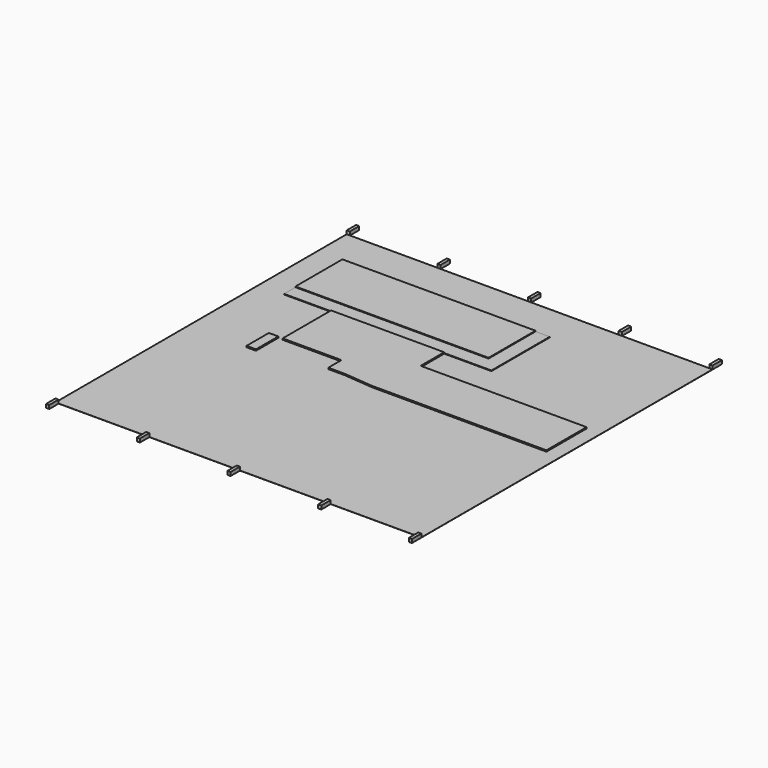
from build123d import *

# Parameters (mm, degrees)
F1_DEPTH = 10
F0_W     = 66
F0_H     = 195
F2_DEPTH = 10
F3_DEPTH = 10
F0_W_2   = 22
F0_H_2   = 82
F4_DEPTH = 25
F5_DEPTH = 25
F6_DEPTH = 5
F7_DEPTH = 1


with BuildPart() as f1:
    # F0 (on Top) → F1 (new body)
    with BuildSketch(Plane.XY):
        Polygon((-1260, -976), (-1260, -770), (-2051, -770), (-2051, -1193), (-1640, -1193), (-1640, -1308), (-1525, -1308), (-1320, -1326.508403), (-100, -1326.508403), (-100, -976), align=None)
    extrude(amount=F1_DEPTH)


with BuildPart() as f2:
    # F0 (on Top) → F2 (new body)
    with BuildSketch(Plane.XY):
        with Locations((-2117, -1287.5)):
            Rectangle(F0_W, F0_H)
    extrude(amount=F2_DEPTH)


with BuildPart() as f3:
    # F0 (on Top) → F3 (new body)
    with BuildSketch(Plane.XY):
        Polygon((-1030, -670), (-1030, -260), (-2380, -260), (-2380, -670), (-2150, -670), align=None)
    extrude(amount=F3_DEPTH)


with BuildPart() as f4:
    # F0 (on Top) → F4 (new body)
    with BuildSketch(Plane.XY):
        with Locations((-2547, 41)):
            Rectangle(F0_W_2, F0_H_2)
        with Locations((-1913, 41)):
            Rectangle(F0_W_2, F0_H_2)
        with Locations((-1279, 41)):
            Rectangle(F0_W_2, F0_H_2)
        with Locations((-645, 41)):
            Rectangle(F0_W_2, F0_H_2)
        with Locations((-11, 41)):
            Rectangle(F0_W_2, F0_H_2)
    extrude(amount=F4_DEPTH)


with BuildPart() as f5:
    # F0 (on Top) → F5 (new body)
    with BuildSketch(Plane.XY):
        with Locations((-2547, -2586)):
            Rectangle(F0_W_2, F0_H_2)
        with Locations((-1913, -2586)):
            Rectangle(F0_W_2, F0_H_2)
        with Locations((-1279, -2586)):
            Rectangle(F0_W_2, F0_H_2)
        with Locations((-645, -2586)):
            Rectangle(F0_W_2, F0_H_2)
        with Locations((-11, -2586)):
            Rectangle(F0_W_2, F0_H_2)
    extrude(amount=F5_DEPTH)


with BuildPart() as f6:
    # F0 (on Top) → F6 (new body)
    with BuildSketch(Plane.XY):
        Polygon((-930, -260), (-1030, -260), (-1030, -670), (-2150, -670), (-2380, -670), (-2380, -770), (-2051, -770), (-1260, -770), (-930, -770), align=None)
    extrude(amount=F6_DEPTH)


with BuildPart() as f7:
    # F0 (on Top) → F7 (new body)
    with BuildSketch(Plane.XY):
        Polygon((0, -976), (0, 0), (-22, 0), (-634, 0), (-656, 0), (-1268, 0), (-1290, 0), (-1902, 0), (-1924, 0), (-2536, 0), (-2558, 0), (-2558, -2545), (-2536, -2545), (-1924, -2545), (-1902, -2545), (-1290, -2545), (-1268, -2545), (-656, -2545), (-634, -2545), (-22, -2545), (0, -2545), (0, -1326.508403), align=None)
        with Locations((-2117, -1287.5)):
            Rectangle(F0_W, F0_H, mode=Mode.SUBTRACT)
        Polygon((-2380, -260), (-1030, -260), (-930, -260), (-930, -770), (-1260, -770), (-1260, -976), (-100, -976), (-100, -1326.508403), (-1320, -1326.508403), (-1525, -1308), (-1640, -1308), (-1640, -1193), (-2051, -1193), (-2051, -770), (-2380, -770), (-2380, -670), align=None, mode=Mode.SUBTRACT)
    extrude(amount=F7_DEPTH)


solid = Compound([f1.part, f2.part, f3.part, f4.part, f5.part, f6.part, f7.part])
